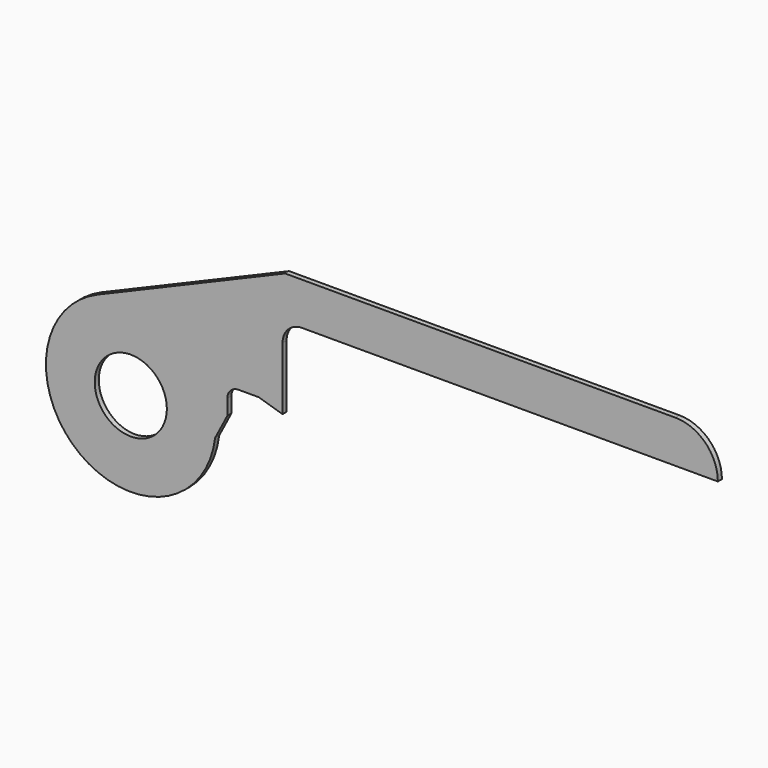
from build123d import *

# Parameters (mm, degrees)
F0_R     = 10.795
F1_DEPTH = 1.524


with BuildPart() as f1:
    # F0 (on Front) → F1 (new body)
    with BuildSketch(Plane.XZ):
        with BuildLine():
            ThreePointArc((25.226326, -2.965207), (25.356544, -1.485144), (25.4, 0))
            ThreePointArc((25.4, 0), (14.019199, 21.1807), (-9.924571, 23.380823))
            ThreePointArc((-9.924571, 23.380823), (-15.233656, -20.324757), (25.226326, -2.965207))
        make_face()
        Circle(F0_R, mode=Mode.SUBTRACT)
        with BuildLine():
            ThreePointArc((-9.924571, 23.380823), (14.019199, 21.1807), (25.4, 0))
            ThreePointArc((25.4, 0), (25.356544, -1.485144), (25.226326, -2.965207))
            Line((25.226326, -2.965207), (28.909326, 4.095993))
            Line((28.909326, 4.095993), (28.909326, 8.718793))
            ThreePointArc((28.909326, 8.718793), (29.87646, 11.053659), (32.211326, 12.020793))
            Line((32.211326, 12.020793), (38.307326, 12.020793))
            Line((38.307326, 12.020793), (45.419326, 9.861793))
            Line((45.419326, 9.861793), (45.419326, 28.657793))
            ThreePointArc((45.419326, 28.657793), (47.130409, 32.788711), (51.261326, 34.499793))
            Line((51.261326, 34.499793), (175.721326, 34.499793))
            ThreePointArc((175.721326, 34.499793), (172.001583, 43.480049), (163.021326, 47.199793))
            Line((163.021326, 47.199793), (46.189405, 47.199793))
            Line((46.189405, 47.199793), (-9.924571, 23.380823))
        make_face()
    extrude(amount=F1_DEPTH)


solid = f1.part
